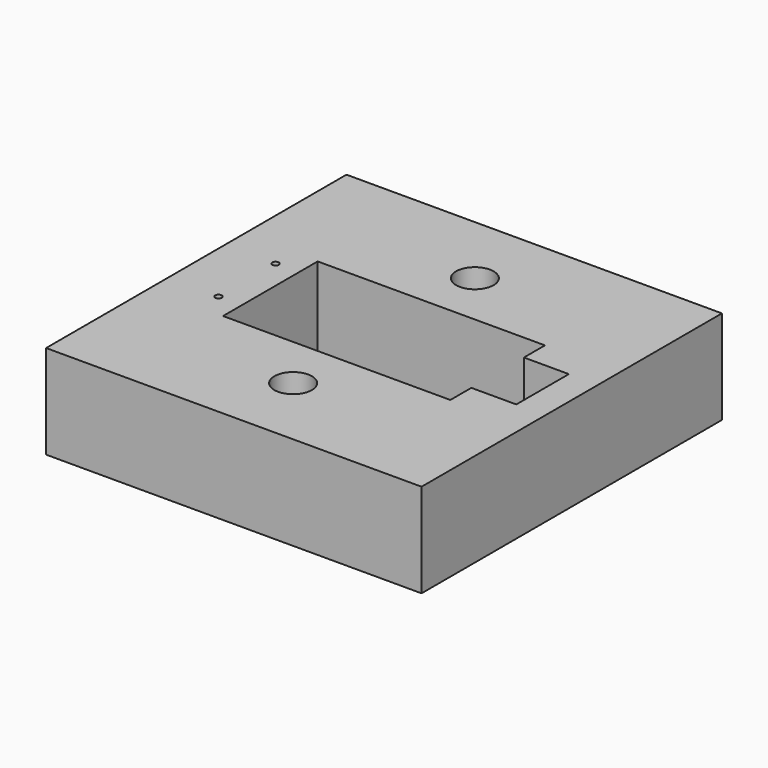
from build123d import *

# Parameters (mm, degrees)
F0_W     = 40
F0_H     = 40
F0_R     = 0.35
F0_R_2   = 2
F1_DEPTH = 10


with BuildPart() as f1:
    # F0 (on Top) → F1 (new body)
    with BuildSketch(Plane.XY):
        with Locations((20, 20)):
            Rectangle(F0_W, F0_H)
        with Locations((5.4065, 16.2)):
            Circle(F0_R, mode=Mode.SUBTRACT)
        with Locations((20, 7.9)):
            Circle(F0_R_2, mode=Mode.SUBTRACT)
        with Locations((5.4065, 23.8)):
            Circle(F0_R, mode=Mode.SUBTRACT)
        Polygon((7.8935, 13.7), (7.8935, 26.3), (32.1065, 26.3), (32.1065, 23.5), (36.8935, 23.5), (36.8935, 16.5), (32.1065, 16.5), (32.1065, 13.7), align=None, mode=Mode.SUBTRACT)
        with Locations((20, 32.1)):
            Circle(F0_R_2, mode=Mode.SUBTRACT)
    extrude(amount=F1_DEPTH)


solid = f1.part
